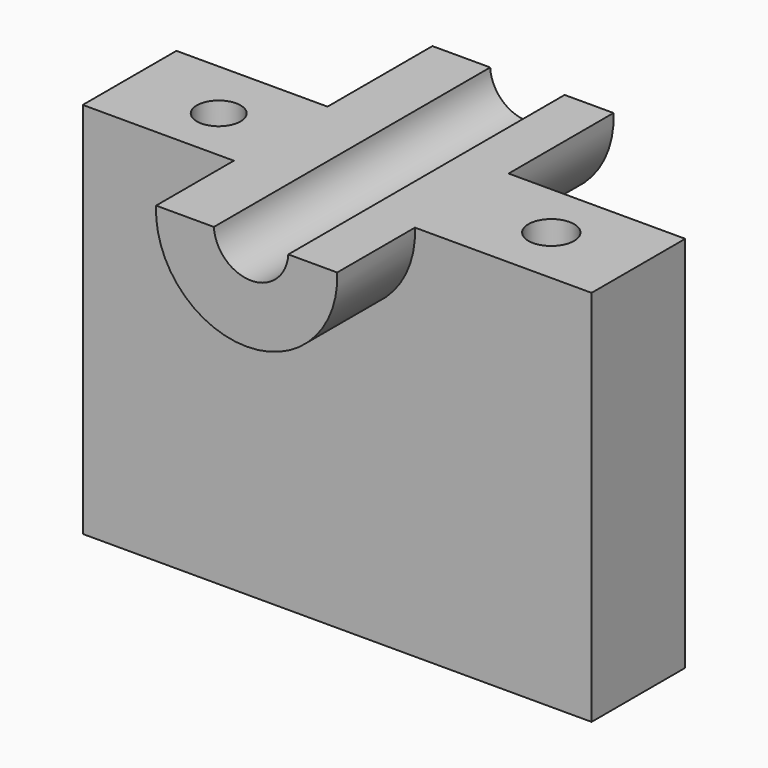
from build123d import *

# Parameters (mm, degrees)
F1_DEPTH = 25.4
F2_DEPTH = 46.482
F3_DEPTH = 28.448
F4_R     = 4.944342
F5_DEPTH = 146.304
F6_R     = 4.740228
F7_DEPTH = 190.754


with BuildPart() as f1:
    # F0 (on Front) → F1 (new body)
    with BuildSketch(Plane.XZ):
        with BuildLine():
            Line((-20.36399, 37.474565), (-53.139172, 37.474565))
            Line((-53.139172, 37.474565), (-53.139172, -44.463389))
            Line((-53.139172, -44.463389), (57.236072, -44.463389))
            Line((57.236072, -44.463389), (57.236072, 37.474565))
            Line((57.236072, 37.474565), (18.918028, 37.474565))
            ThreePointArc((18.918028, 37.474565), (-0.722981, 16.928844), (-20.36399, 37.474565))
        make_face()
    extrude(amount=F1_DEPTH)

    # F0 (on Front) → F2 (join)
    with BuildSketch(Plane.XZ):
        with BuildLine():
            Line((-7.832305, 37.474565), (-20.36399, 37.474565))
            ThreePointArc((-20.36399, 37.474565), (-0.722981, 16.928844), (18.918028, 37.474565))
            Line((18.918028, 37.474565), (8.314293, 37.474565))
            ThreePointArc((8.314293, 37.474565), (0.240994, 29.850579), (-7.832305, 37.474565))
        make_face()
    extrude(amount=F2_DEPTH)

    # F0 (on Front) → F3 (join)
    with BuildSketch(Plane.XZ):
        with BuildLine():
            Line((-7.832305, 37.474565), (-20.36399, 37.474565))
            ThreePointArc((-20.36399, 37.474565), (-0.722981, 16.928844), (18.918028, 37.474565))
            Line((18.918028, 37.474565), (8.314293, 37.474565))
            ThreePointArc((8.314293, 37.474565), (0.240994, 29.850579), (-7.832305, 37.474565))
        make_face()
    extrude(amount=-F3_DEPTH)

    # F4 (on face) → F5 (cut)
    with BuildSketch(Plane.XY.offset(37.474565)):
        with Locations((38.07705, -12.379073)):
            Circle(F4_R)
    extrude(amount=-F5_DEPTH, mode=Mode.SUBTRACT)

    # F6 (on face) → F7 (cut)
    with BuildSketch(Plane.XY.offset(37.474565)):
        with Locations((-33.211779, -13.443239)):
            Circle(F6_R)
    extrude(amount=-F7_DEPTH, mode=Mode.SUBTRACT)


solid = f1.part
